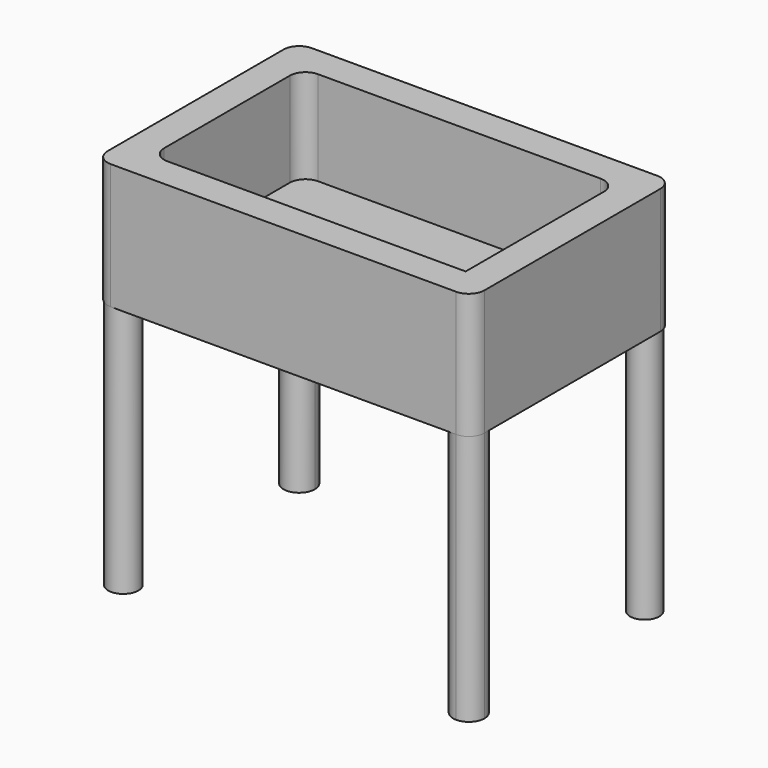
from build123d import *

# Parameters (mm, degrees)
F0_R     = 6.111034
F0_R_2   = 5.894709
F1_DEPTH = 50.8
F2_DEPTH = 101.6
F3_DEPTH = 12.7


with BuildPart() as f1:
    # F0 (on Top) → F1 (new body)
    with BuildSketch(Plane.XY):
        with BuildLine():
            ThreePointArc((76.2, 44.45), (74.340128, 48.940128), (69.85, 50.8))
            Line((69.85, 50.8), (-69.85, 50.8))
            ThreePointArc((-69.85, 50.8), (-65.359872, 48.940128), (-63.5, 44.45))
            ThreePointArc((-63.5, 44.45), (-69.85, 38.1), (-76.2, 44.45))
            Line((-76.2, 44.45), (-76.2, -44.45))
            ThreePointArc((-76.2, -44.45), (-74.340128, -48.940128), (-69.85, -50.8))
            Line((-69.85, -50.8), (69.85, -50.8))
            ThreePointArc((69.85, -50.8), (65.359872, -39.959872), (76.2, -44.45))
            Line((76.2, -44.45), (76.2, 44.45))
        make_face()
        with Locations((-69.85, -44.45)):
            Circle(F0_R, mode=Mode.SUBTRACT)
        with BuildLine():
            Line((-57.15, 38.1), (57.15, 38.1))
            ThreePointArc((57.15, 38.1), (61.640128, 36.240128), (63.5, 31.75))
            Line((63.5, 31.75), (63.5, -38.1))
            Line((63.5, -38.1), (-57.15, -38.1))
            ThreePointArc((-57.15, -38.1), (-61.640128, -36.240128), (-63.5, -31.75))
            Line((-63.5, -31.75), (-63.5, 31.75))
            ThreePointArc((-63.5, 31.75), (-61.640128, 36.240128), (-57.15, 38.1))
        make_face(mode=Mode.SUBTRACT)
        with Locations((69.85, 44.45)):
            Circle(F0_R_2, mode=Mode.SUBTRACT)
        with BuildLine():
            ThreePointArc((-63.5, 44.45), (-65.359872, 48.940128), (-69.85, 50.8))
            ThreePointArc((-69.85, 50.8), (-74.340128, 48.940128), (-76.2, 44.45))
            ThreePointArc((-76.2, 44.45), (-69.85, 38.1), (-63.5, 44.45))
        make_face()
        with BuildLine():
            ThreePointArc((69.85, -50.8), (74.340128, -48.940128), (76.2, -44.45))
            ThreePointArc((76.2, -44.45), (65.359872, -39.959872), (69.85, -50.8))
        make_face()
        with Locations((69.85, 44.45)):
            Circle(F0_R_2)
        with Locations((-69.85, -44.45)):
            Circle(F0_R)
    extrude(amount=F1_DEPTH)


with BuildPart() as f2:
    # F0 (on Top) → F2 (new body)
    with BuildSketch(Plane.XY):
        with BuildLine():
            ThreePointArc((-63.5, 44.45), (-65.359872, 48.940128), (-69.85, 50.8))
            ThreePointArc((-69.85, 50.8), (-74.340128, 48.940128), (-76.2, 44.45))
            ThreePointArc((-76.2, 44.45), (-69.85, 38.1), (-63.5, 44.45))
        make_face()
        with Locations((69.85, 44.45)):
            Circle(F0_R_2)
        with BuildLine():
            ThreePointArc((69.85, -50.8), (74.340128, -48.940128), (76.2, -44.45))
            ThreePointArc((76.2, -44.45), (65.359872, -39.959872), (69.85, -50.8))
        make_face()
        with Locations((-69.85, -44.45)):
            Circle(F0_R)
    extrude(amount=-F2_DEPTH)


with BuildPart() as f3:
    # F0 (on Top) → F3 (new body)
    with BuildSketch(Plane.XY):
        with BuildLine():
            ThreePointArc((63.5, 31.75), (61.640128, 36.240128), (57.15, 38.1))
            Line((57.15, 38.1), (-57.15, 38.1))
            ThreePointArc((-57.15, 38.1), (-61.640128, 36.240128), (-63.5, 31.75))
            Line((-63.5, 31.75), (-63.5, -31.75))
            ThreePointArc((-63.5, -31.75), (-61.640128, -36.240128), (-57.15, -38.1))
            Line((-57.15, -38.1), (63.5, -38.1))
            Line((63.5, -38.1), (63.5, 31.75))
        make_face()
    extrude(amount=F3_DEPTH)


solid = Compound([f1.part, f2.part, f3.part])
